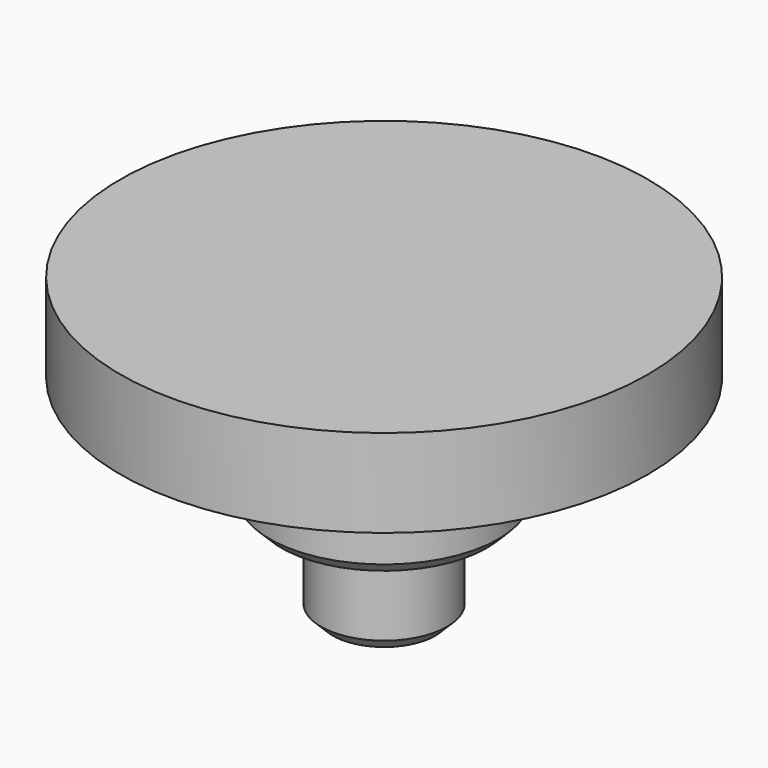
from build123d import *

# Parameters (mm, degrees)
F0_R      = 4.4
F0_R_2    = 3.9
F1_DEPTH  = 1
F0_R_3    = 2.15
F2_DEPTH  = 4
F3_DEPTH  = 7.2
F4_SIZE   = 0.4
F4_2_SIZE = 0.4
F0_R_4    = 9
F5_DEPTH  = 3


with BuildPart() as f1:
    # F0 (on Top) → F1 (new body)
    with BuildSketch(Plane.XY):
        Circle(F0_R)
        Circle(F0_R_2, mode=Mode.SUBTRACT)
    extrude(amount=-F1_DEPTH)


with BuildPart() as f2:
    # F0 (on Top) → F2 (new body)
    with BuildSketch(Plane.XY):
        Circle(F0_R_2)
        Circle(F0_R_3, mode=Mode.SUBTRACT)
    extrude(amount=-F2_DEPTH)

    # F4#2
    f4_2_edges = [f2.edges().sort_by_distance(p)[0] for p in [
        (-3.9, 0, -4),
    ]]
    chamfer(f4_2_edges, length=F4_2_SIZE)


with BuildPart() as f3:
    # F0 (on Top) → F3 (new body)
    with BuildSketch(Plane.XY):
        Circle(F0_R_3)
    extrude(amount=-F3_DEPTH)

    # F4
    f4_edges = [f3.edges().sort_by_distance(p)[0] for p in [
        (-2.15, 0, -7.2),
    ]]
    chamfer(f4_edges, length=F4_SIZE)


with BuildPart() as f5:
    # F0 (on Top) → F5 (new body)
    with BuildSketch(Plane.XY):
        Circle(F0_R_4)
        Circle(F0_R, mode=Mode.SUBTRACT)
        Circle(F0_R)
        Circle(F0_R_2, mode=Mode.SUBTRACT)
        Circle(F0_R_2)
        Circle(F0_R_3, mode=Mode.SUBTRACT)
        Circle(F0_R_3)
    extrude(amount=F5_DEPTH)


solid = Compound([f1.part, f2.part, f3.part, f5.part])
